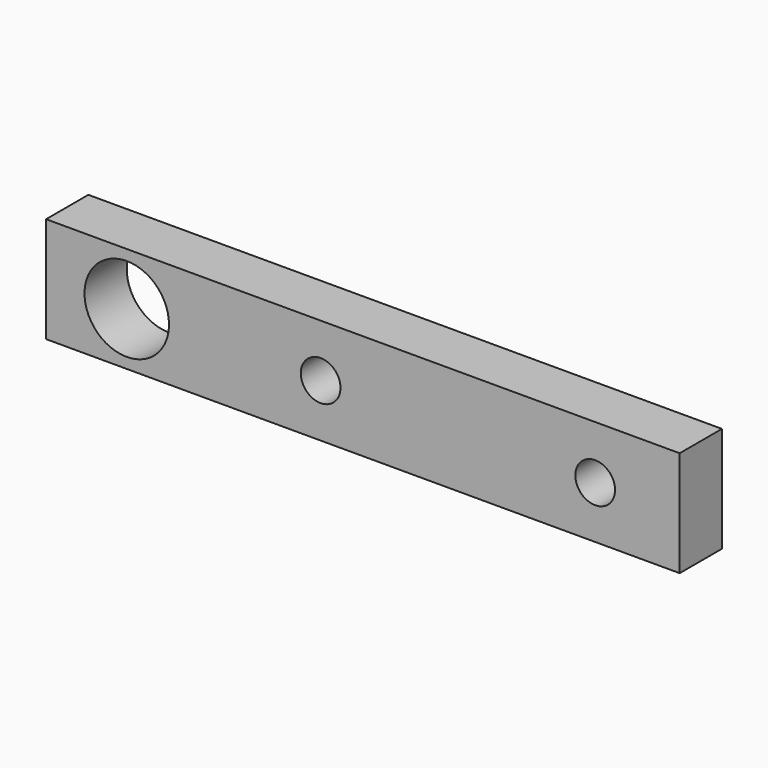
from build123d import *

# Parameters (mm, degrees)
F0_W     = 38.1
F0_H     = 6.35
F0_R     = 2.54
F0_R_2   = 1.1938
F1_DEPTH = 3.175


with BuildPart() as f1:
    # F0 (on Front) → F1 (new body)
    with BuildSketch(Plane.XZ):
        with Locations((19.05, 3.175)):
            Rectangle(F0_W, F0_H)
        with Locations((4.8514, 3.175)):
            Circle(F0_R, mode=Mode.SUBTRACT)
        with Locations((16.51, 3.175)):
            Circle(F0_R_2, mode=Mode.SUBTRACT)
        with Locations((33.02, 3.139029257)):
            Circle(F0_R_2, mode=Mode.SUBTRACT)
    extrude(amount=F1_DEPTH)


solid = f1.part
